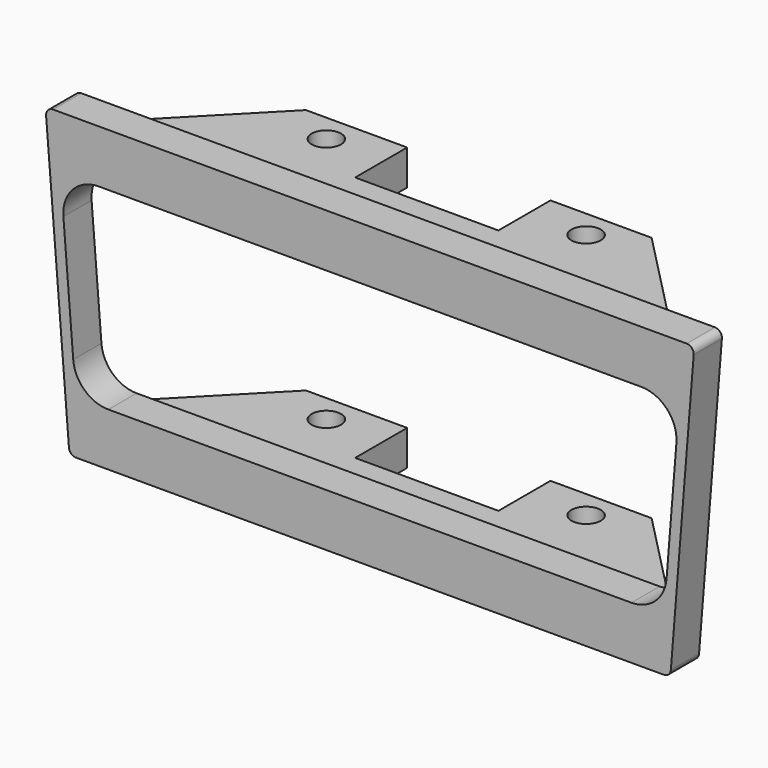
from build123d import *

# Parameters (mm, degrees)
F1_DEPTH = 5
F2_W     = 76.953554
F2_H     = 5
F2_W_2   = 74.162988
F3_DEPTH = 14.3
F4_R     = 2.0828
F5_DEPTH = 41.121068
F6_W     = 20.32
F6_H     = 9.22
F7_DEPTH = 41.121068


with BuildPart() as f1:
    # F0 (on Front) → F1 (new body)
    with BuildSketch(Plane.XZ):
        with BuildLine():
            Line((-3.313402, 41.320068), (-0.073779, 0.920068))
            ThreePointArc((-0.073779, 0.920068), (0.244763, 0.265176), (0.923021, 0))
            Line((0.923021, 0), (84.276979, 0))
            ThreePointArc((84.276979, 0), (84.955237, 0.265176), (85.273779, 0.920068))
            Line((85.273779, 0.920068), (88.513402, 41.320068))
            ThreePointArc((88.513402, 41.320068), (88.251425, 42.078258), (87.516601, 42.4))
            Line((87.516601, 42.4), (-2.316601, 42.4))
            ThreePointArc((-2.316601, 42.4), (-3.051425, 42.078258), (-3.313402, 41.320068))
        make_face()
        with BuildLine():
            ThreePointArc((-0.860778, 29.500339), (0.449104, 33.29129), (4.123223, 34.9))
            Line((4.123223, 34.9), (81.076777, 34.9))
            ThreePointArc((81.076777, 34.9), (84.750896, 33.29129), (86.060778, 29.500339))
            Line((86.060778, 29.500339), (84.665495, 12.100339))
            ThreePointArc((84.665495, 12.100339), (83.072784, 8.825881), (79.681494, 7.5))
            Line((79.681494, 7.5), (5.518506, 7.5))
            ThreePointArc((5.518506, 7.5), (2.127216, 8.825881), (0.534505, 12.100339))
            Line((0.534505, 12.100339), (-0.860778, 29.500339))
        make_face(mode=Mode.SUBTRACT)
    extrude(amount=F1_DEPTH)

    # F2 (on face) → F3 (join)
    with BuildSketch(Plane(origin=(0, 0, 0), x_dir=(-1, 0, 0), z_dir=(0, 1, 0))):
        with Locations((-42.6, 38.620068)):
            Rectangle(F2_W, F2_H)
        with Locations((-42.6, 3.620068)):
            Rectangle(F2_W_2, F2_H)
    extrude(amount=F3_DEPTH)

    # F4 (on face) → F5 (cut, through all)
    with BuildSketch(Plane.XY.offset(41.120068)):
        with Locations((24.185, 10.3)):
            Circle(F4_R)
        with Locations((61.015, 10.3)):
            Circle(F4_R)
    extrude(amount=-F5_DEPTH, mode=Mode.SUBTRACT)

    # F6 (on face) → F7 (cut, through all)
    with BuildSketch(Plane.XY.offset(41.120068)):
        Polygon((4.123223, 14.3), (4.123223, 0), (18.093223, 14.3), align=None)
        with Locations((42.604223, 9.69)):
            Rectangle(F6_W, F6_H)
        Polygon((81.076777, 14.3), (67.106777, 14.3), (81.076777, 0), align=None)
    extrude(amount=-F7_DEPTH, mode=Mode.SUBTRACT)


solid = f1.part
